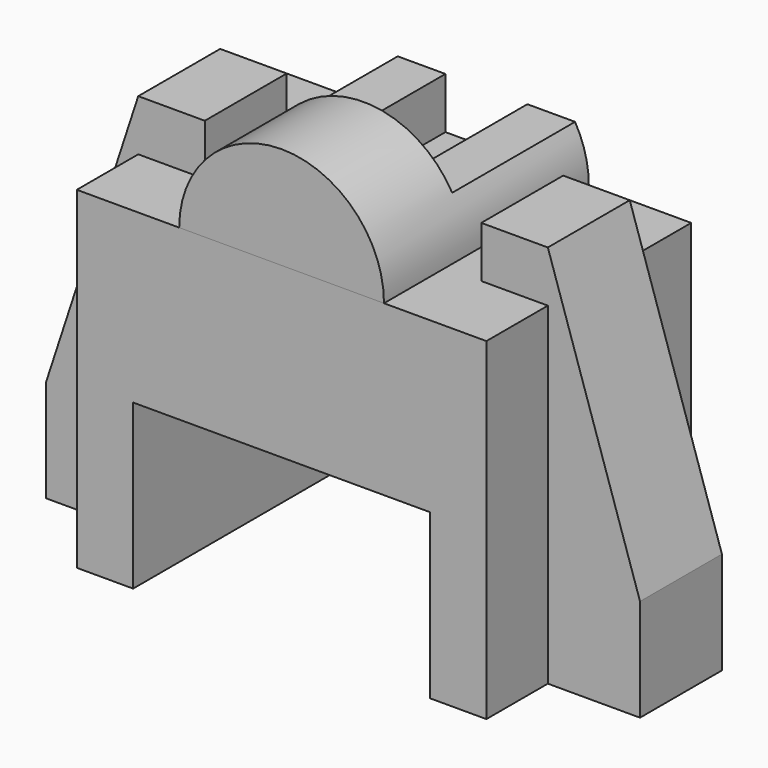
from build123d import *

# Parameters (mm, degrees)
F0_W          = 80
F0_H          = 50
F1_DEPTH      = 65
F3_DEPTH      = 234.7
F5_DEPTH      = 50
F7_DEPTH      = 30
F9_DEPTH      = 10
F9_DEPTH_BACK = 10


with BuildPart() as f1:
    # F0 (on Top) → F1 (new body)
    with BuildSketch(Plane.XY):
        Rectangle(F0_W, F0_H)
    extrude(amount=F1_DEPTH)

    # F2 (on face) → F3 (cut)
    with BuildSketch(Plane.XZ.offset(25)):
        Polygon((-29, 0), (0, 0), (29, 0), (29, 32), (-29, 32), align=None)
    extrude(amount=-F3_DEPTH, mode=Mode.SUBTRACT)


with BuildPart() as f5:
    # F4 (on face) → F5 (new body, through all)
    with BuildSketch(Plane.XZ.offset(25)):
        with BuildLine():
            Line((-20, 65), (20, 65))
            ThreePointArc((20, 65), (0, 85), (-20, 65))
        make_face()
    extrude(amount=-F5_DEPTH)

    # F6 (on face) → F7 (cut)
    with BuildSketch(Plane(origin=(0, 25, 0), x_dir=(-1, 0, 0), z_dir=(0, 1, 0))):
        with BuildLine():
            Line((-8, 75), (8, 75))
            Line((8, 75), (17.320508, 75))
            ThreePointArc((17.320508, 75), (0, 85), (-17.320508, 75))
            Line((-17.320508, 75), (-8, 75))
        make_face()
        Polygon((-8, 65), (0, 65), (8, 65), (8, 75), (-8, 75), align=None)
    extrude(amount=-F7_DEPTH, mode=Mode.SUBTRACT)


with BuildPart() as f9:
    # F8 (on Front) → F9 (new body, two sides)
    with BuildSketch(Plane.XZ) as f9_sk:
        Polygon((40, 65), (40, 0), (58, 0), (58, 20), (40, 75), (27, 75), (27, 65), align=None)
        Polygon((-58, 0), (-40, 0), (-40, 65), (-27, 65), (-27, 75), (-40, 75), (-58, 20), align=None)
    extrude(amount=F9_DEPTH)
    extrude(f9_sk.sketch, amount=-F9_DEPTH_BACK)


solid = Compound([f1.part, f5.part, f9.part])
